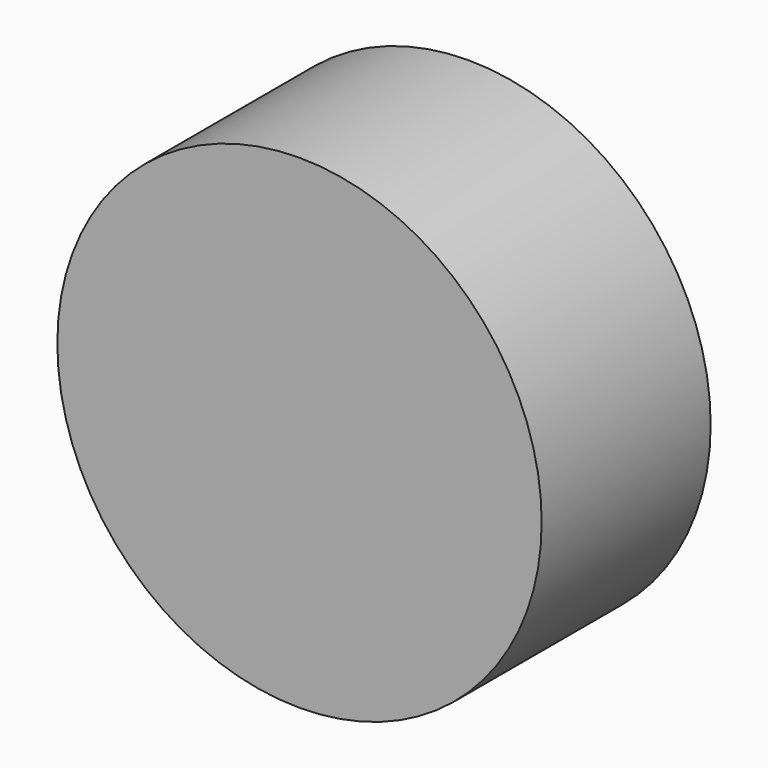
from build123d import *

# Parameters (mm, degrees)
F0_W     = 65.6201670203
F0_H     = 96.2218583371
F1_DEPTH = 25.4
F2_DEPTH = 25.4


with BuildPart() as f1:
    # F0 (on Front) → F1 (new body)
    with BuildSketch(Plane.XZ):
        with BuildLine():
            ThreePointArc((32.8100835102, -48.1109291686), (51.486966505, -27.2076343241), (58.2336937297, 0))
            ThreePointArc((58.2336937297, 0), (51.486966505, 27.2076343241), (32.8100835102, 48.1109291686))
            Line((32.8100835102, 48.1109291686), (32.8100835102, -48.1109291686))
        make_face()
        with BuildLine():
            Line((-32.8100835102, 48.1109291686), (32.8100835102, 48.1109291686))
            ThreePointArc((32.8100835102, 48.1109291686), (0, 58.2336937297), (-32.8100835102, 48.1109291686))
        make_face()
        Rectangle(F0_W, F0_H)
        with BuildLine():
            ThreePointArc((-32.8100835102, -48.1109291686), (0, -58.2336937297), (32.8100835102, -48.1109291686))
            Line((32.8100835102, -48.1109291686), (-32.8100835102, -48.1109291686))
        make_face()
        with BuildLine():
            Line((-32.8100835102, -48.1109291686), (-32.8100835102, 48.1109291686))
            ThreePointArc((-32.8100835102, 48.1109291686), (-58.2336937297, 0), (-32.8100835102, -48.1109291686))
        make_face()
    extrude(amount=F1_DEPTH)

    # F2 (add): a face of the model
    f2_faces = [f1.faces().sort_by_distance(p)[0] for p in [
        (0, -25.4, 0),
    ]]
    extrude(f2_faces, amount=F2_DEPTH)


solid = f1.part
